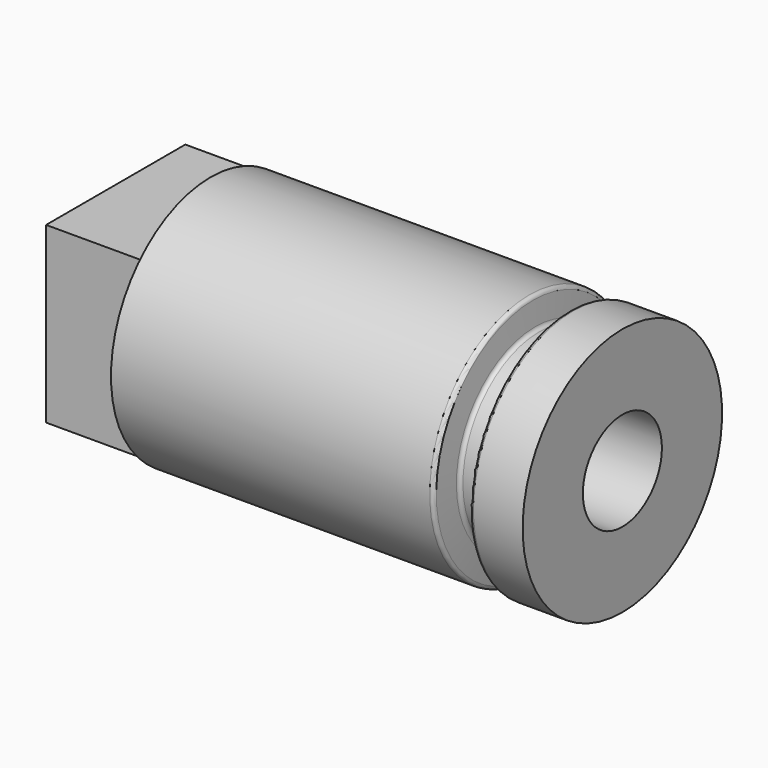
from build123d import *

# Parameters (mm, degrees)
F2_W     = 17.4498
F2_H     = 17.4498
F3_DEPTH = 9.525
F4_R     = 4.953
F5_DEPTH = 50.801


with BuildPart() as f1:
    # F0 (on Front) → F1 (revolve)
    with BuildSketch(Plane.XZ):
        with BuildLine():
            Line((11.316179, 12.4968), (-20.6375, 12.4968))
            Line((-20.6375, 12.4968), (-20.6375, 0))
            Line((-20.6375, 0), (20.6375, 0))
            Line((20.6375, 0), (20.6375, 12.4968))
            Line((20.6375, 12.4968), (15.709421, 12.4968))
            ThreePointArc((15.709421, 12.4968), (15.452021, 12.396703), (15.329871, 12.149006))
            Line((15.329871, 12.149006), (15.130728, 9.872794))
            ThreePointArc((15.130728, 9.872794), (15.008578, 9.625097), (14.751178, 9.525))
            Line((14.751178, 9.525), (12.274422, 9.525))
            ThreePointArc((12.274422, 9.525), (12.017022, 9.625097), (11.894872, 9.872794))
            Line((11.894872, 9.872794), (11.695729, 12.149006))
            ThreePointArc((11.695729, 12.149006), (11.573579, 12.396703), (11.316179, 12.4968))
        make_face()
    revolve(axis=Axis((-2.210241, 0, 0), (-1, 0, 0)))

    # F2 (on face) → F3 (join)
    with BuildSketch(Plane(origin=(-20.6375, 0, 0), x_dir=(0, -1, 0), z_dir=(-1, 0, 0))):
        Rectangle(F2_W, F2_H)
    extrude(amount=F3_DEPTH)

    # F4 (on face) → F5 (cut, through all)
    with BuildSketch(Plane.YZ.offset(20.6375)):
        Circle(F4_R)
    extrude(amount=-F5_DEPTH, mode=Mode.SUBTRACT)


solid = f1.part
